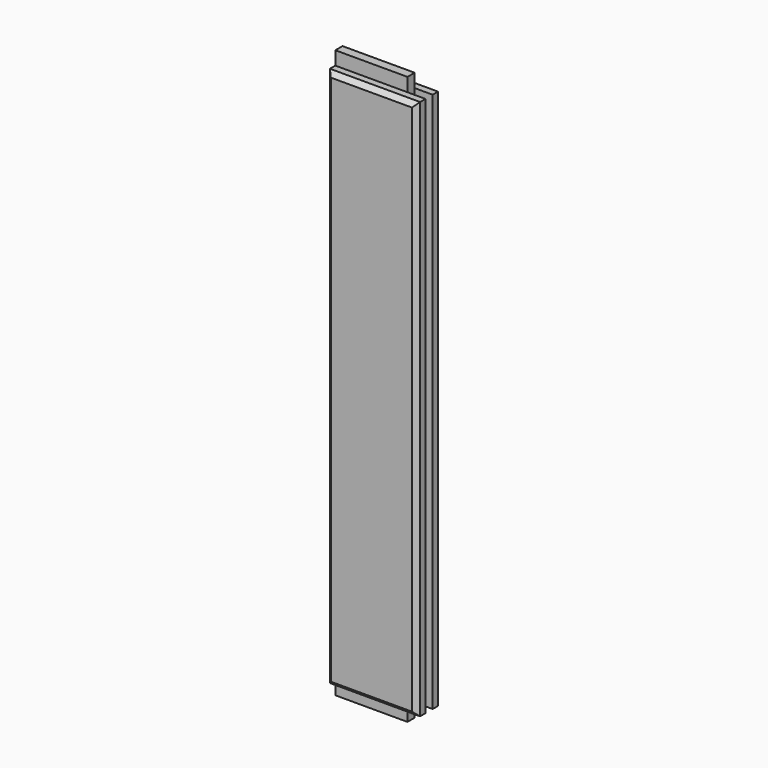
from build123d import *

# Parameters (mm, degrees)
F0_W     = 63.5
F0_H     = 19.05
F1_DEPTH = 381
F2_SIZE  = 3.175
F3_W     = 12.7
F3_H     = 6.35
F4_DEPTH = 381.001
F5_W     = 6.35
F5_H     = 9.525
F6_DEPTH = 50.8


with BuildPart() as f1:
    # F0 (on Top) → F1 (new body)
    with BuildSketch(Plane.XY):
        with Locations((31.75, 9.525)):
            Rectangle(F0_W, F0_H)
    extrude(amount=F1_DEPTH)

    # F2
    f2_edges = [f1.edges().sort_by_distance(p)[0] for p in [
        (0, 0, 190.5),
        (63.5, 0, 190.5),
        (31.75, 0, 381),
        (31.75, 0, 0),
    ]]
    chamfer(f2_edges, length=F2_SIZE)

    # F3 (on face) → F4 (cut, through all)
    with BuildSketch(Plane(origin=(0, 0, 0), x_dir=(1, 0, 0), z_dir=(0, 0, -1))):
        with Locations((57.15, -11.1125)):
            Rectangle(F3_W, F3_H)
    extrude(amount=-F4_DEPTH, mode=Mode.SUBTRACT)

    # F5 (on face) → F6 (join)
    with BuildSketch(Plane(origin=(0, 0, 0), x_dir=(0, -1, 0), z_dir=(-1, 0, 0))):
        with Locations((-11.1125, 385.7625)):
            Rectangle(F5_W, F5_H)
        with Locations((-11.1125, -4.7625)):
            Rectangle(F5_W, F5_H)
    extrude(amount=-F6_DEPTH)


solid = f1.part
